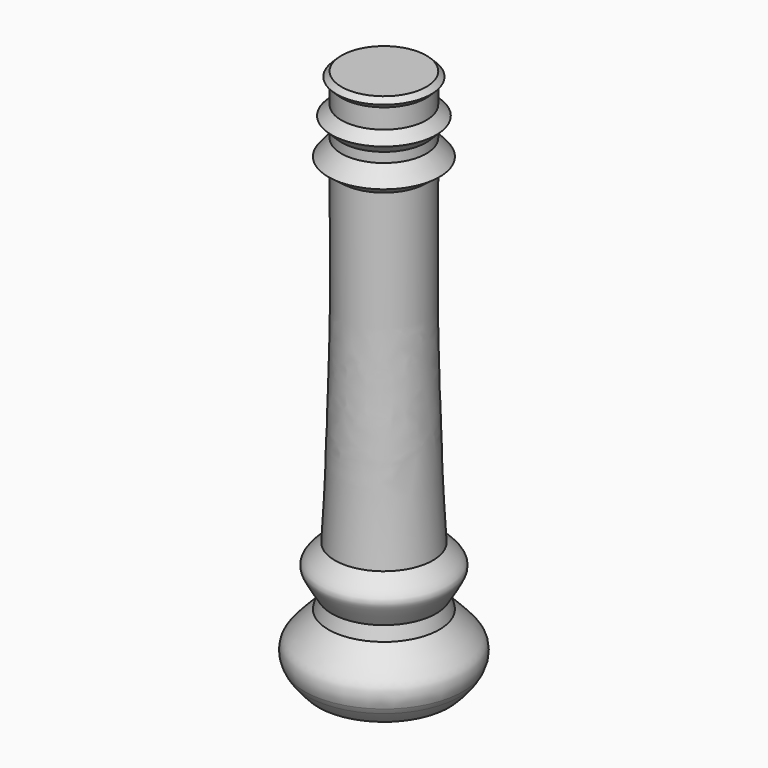
from build123d import *

# Parameters (mm, degrees)
F0_W   = 13
F0_H   = 6
F0_H_2 = 3


with BuildPart() as f1:
    # F0 (on Front) → F1 (revolve)
    with BuildSketch(Plane.XZ):
        with BuildLine():
            Line((0, -178), (0, -160))
            Line((0, -160), (-17, -160))
            add(Edge.make_bspline(
                [(-17, -160), (-24.3, -167.3), (-24.980532811, -168.4359209337), (-25.2089356314, -172.352152053), (-24.3429610158, -174.2508982315)],
                knots=[0, 0, 0, 0, 0.5169655278, 0.7853894573, 0.7853894573, 0.7853894573, 0.7853894573], degree=3))
            Line((-24.3429610158, -174.2508982315), (-22.7917064089, -173.229793401))
            Line((-22.7917064089, -173.229793401), (-21.6920656283, -174.9003592194))
            Line((-21.6920656283, -174.9003592194), (-23.3626314467, -176))
            add(Edge.make_bspline(
                [(-23.3626314467, -176), (-22.6023784669, -177.1549704813), (-21.5225421968, -178.4774578032), (-20, -180)],
                knots=[0.8612376667, 0.8612376667, 0.8612376667, 0.8612376667, 1, 1, 1, 1], degree=3))
            Line((-20, -180), (-18, -178))
            Line((-18, -178), (0, -178))
        make_face()
        with BuildLine():
            Line((-22.7917064089, -173.229793401), (-24.3429610158, -174.2508982315))
            add(Edge.make_bspline(
                [(-24.3429610158, -174.2508982315), (-24.0982636666, -174.7874245319), (-23.7781896597, -175.3686871582), (-23.3626314467, -176)],
                knots=[0.7853894573, 0.7853894573, 0.7853894573, 0.7853894573, 0.8612376667, 0.8612376667, 0.8612376667, 0.8612376667], degree=3))
            Line((-23.3626314467, -176), (-21.6920656283, -174.9003592194))
            Line((-21.6920656283, -174.9003592194), (-22.7917064089, -173.229793401))
        make_face()
    revolve(axis=Axis((0, 0, -94.6546308696), (0, 0, -1)))


with BuildPart() as f1b:
    # F0 (on Front) → F1, piece 2 (revolve)
    with BuildSketch(Plane.XZ):
        with BuildLine():
            Line((0, -156), (0, -142))
            Line((0, -142), (-15, -142))
            add(Edge.make_bspline(
                [(-16, -156), (-20.0816467404, -149.3781763315), (-20.0078994568, -148.2936880257), (-19.9139416218, -146.2476807833), (-15, -142)],
                knots=[0, 0, 0, 0, 0.5169405615, 1, 1, 1, 1], degree=3))
            Line((-16, -156), (0, -156))
        make_face()
    revolve(axis=Axis((0, 0, -94.6546308696), (0, 0, -1)))


with BuildPart() as f1c:
    # F0 (on Front) → F1, piece 3 (revolve)
    with BuildSketch(Plane.XZ):
        Polygon((0, -41), (0, -33), (-13, -33), (-17, -38), (-13, -41), align=None)
    revolve(axis=Axis((0, 0, -94.6546308696), (0, 0, -1)))


with BuildPart() as f1d:
    # F0 (on Front) → F1, piece 4 (revolve)
    with BuildSketch(Plane.XZ):
        Polygon((0, -30), (0, -24), (-13, -24), (-16, -27), (-13, -30), align=None)
    revolve(axis=Axis((0, 0, -94.6546308696), (0, 0, -1)))


with BuildPart() as f1e:
    # F0 (on Front) → F1, piece 5 (revolve)
    with BuildSketch(Plane.XZ):
        Polygon((0, -18), (0, -15), (-13, -15), (-14.5, -16.5), (-13, -18), align=None)
    revolve(axis=Axis((0, 0, -94.6546308696), (0, 0, -1)))


with BuildPart() as f2:
    # F0 (on Front) → F2 (revolve)
    with BuildSketch(Plane.XZ):
        with Locations((-6.5, -21)):
            Rectangle(F0_W, F0_H)
    revolve(axis=Axis((0, 0, -94.6546308696), (0, 0, -1)))


with BuildPart() as f2b:
    # F0 (on Front) → F2, piece 2 (revolve)
    with BuildSketch(Plane.XZ):
        with Locations((-6.5, -31.5)):
            Rectangle(F0_W, F0_H_2)
    revolve(axis=Axis((0, 0, -94.6546308696), (0, 0, -1)))


with BuildPart() as f2c:
    # F0 (on Front) → F2, piece 3 (revolve)
    with BuildSketch(Plane.XZ):
        Polygon((0, -160), (0, -156), (-16, -156), (-17, -160), align=None)
    revolve(axis=Axis((0, 0, -94.6546308696), (0, 0, -1)))


with BuildPart() as f3:
    # F0 (on Front) → F3 (revolve)
    with BuildSketch(Plane.XZ):
        with BuildLine():
            Line((0, -142), (0, -41))
            Line((0, -41), (-13, -41))
            add(Edge.make_bspline(
                [(-13, -41), (-12.9412225997, -60.457119119), (-12.6519423783, -80.461874006), (-14.072800506, -121.3039956721), (-14.3802237204, -132.6450677331), (-15, -142)],
                knots=[0, 0, 0, 0, 0.3801098043, 0.7279740858, 1, 1, 1, 1], degree=3))
            Line((-15, -142), (0, -142))
        make_face()
    revolve(axis=Axis((0, 0, -94.6546308696), (0, 0, -1)))


solid = Compound([f1.part, f1b.part, f1c.part, f1d.part, f1e.part, f2.part, f2b.part, f2c.part, f3.part])
